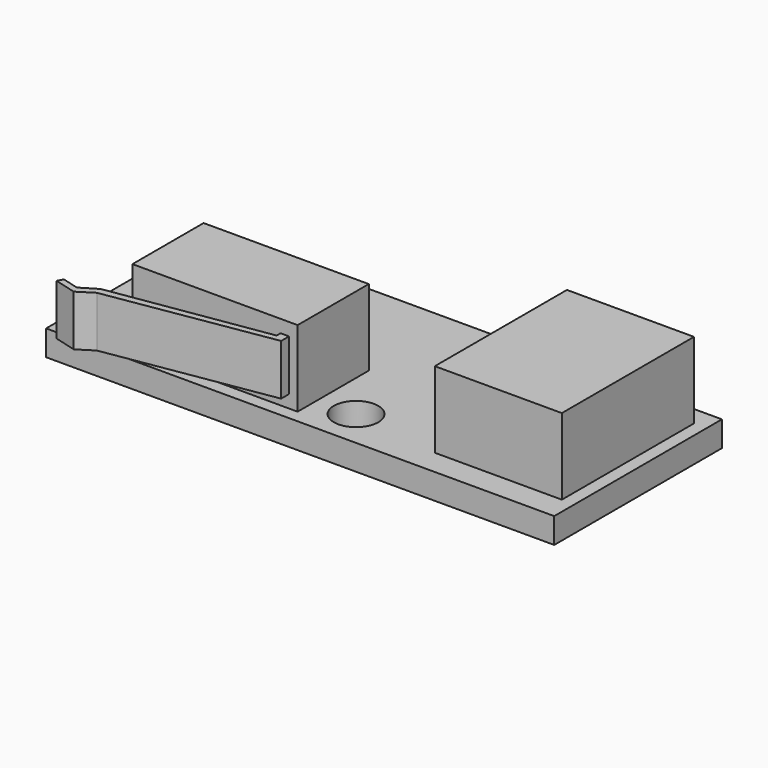
from build123d import *

# Parameters (mm, degrees)
BOX004_W     = 4
BOX004_H     = 11
BOX004_DEPTH = 2
BOX002_W     = 10
BOX002_H     = 13
BOX002_DEPTH = 6
BOX001_W     = 13
BOX001_H     = 7
BOX001_DEPTH = 6
PAD003_DEPTH = 4
SKETCH002_W  = 40
SKETCH002_H  = 16.5
SKETCH002_R  = 1.75
PAD002_DEPTH = 2
BOX003_W     = 13
BOX003_H     = 5
BOX003_DEPTH = 2


with BuildPart() as cube004:
    # Box004 → Box004 (new body)
    with BuildSketch(Plane(origin=(24, 0, -2), x_dir=(1, 0, 0), z_dir=(0, 0, 1))):
        with Locations((2, 5.5)):
            Rectangle(BOX004_W, BOX004_H)
    extrude(amount=BOX004_DEPTH)


with BuildPart() as cube002:
    # Box002 → Box002 (new body)
    with BuildSketch(Plane(origin=(26, -1, 2), x_dir=(1, 0, 0), z_dir=(0, 0, 1))):
        with Locations((5, 6.5)):
            Rectangle(BOX002_W, BOX002_H)
    extrude(amount=BOX002_DEPTH)


with BuildPart() as cube001:
    # Box001 → Box001 (new body)
    with BuildSketch(Plane(origin=(3, -2, 2), x_dir=(1, 0, 0), z_dir=(0, 0, 1))):
        with Locations((6.5, 3.5)):
            Rectangle(BOX001_W, BOX001_H)
    extrude(amount=BOX001_DEPTH)


with BuildPart() as fusion005:
    # Sketch003 → Pad003 (new body)
    with BuildSketch(Plane.XY.offset(3)):
        Polygon((15.32428, -1.087794), (15.32428, -2.777316), (2.472262, -4.853757), (1.271945, -5.617596), (-0.446694, -5.153837), (-0.228454, -4.717358), (1.080985, -5.071997), (2.335863, -4.308158), (14.655511, -2.390134), (14.655511, -1.087794), align=None)
    extrude(amount=PAD003_DEPTH)

    # Fusion005: union Cube001
    add(cube001.part)


with BuildPart() as pad002:
    # Sketch002 → Pad002 (new body)
    with BuildSketch(Plane.XY):
        with Locations((17, 5.25)):
            Rectangle(SKETCH002_W, SKETCH002_H)
        Circle(SKETCH002_R, mode=Mode.SUBTRACT)
        with Locations((19, 0)):
            Circle(SKETCH002_R, mode=Mode.SUBTRACT)
    extrude(amount=PAD002_DEPTH)


with BuildPart() as endstop:
    # Box003 → Box003 (new body)
    with BuildSketch(Plane(origin=(3, 4, -2), x_dir=(1, 0, 0), z_dir=(0, 0, 1))):
        with Locations((6.5, 2.5)):
            Rectangle(BOX003_W, BOX003_H)
    extrude(amount=BOX003_DEPTH)

    # Fusion006: union Cube004, Cube002, Fusion005, Pad002
    add(cube004.part)
    add(cube002.part)
    add(fusion005.part)
    add(pad002.part)


solid = endstop.part
